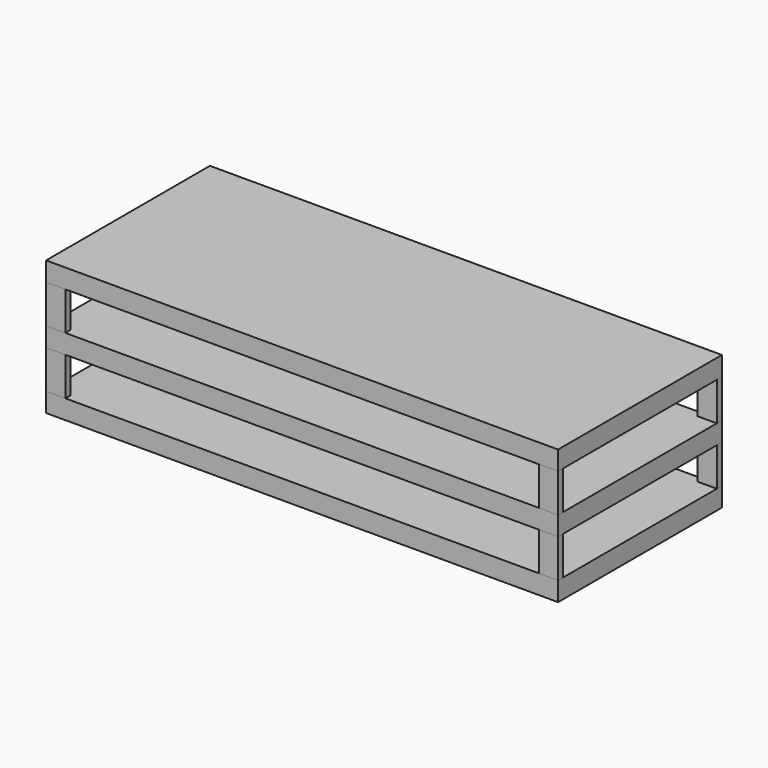
from build123d import *

# Parameters (mm, degrees)
F0_W     = 254
F0_H     = 9.525
F1_DEPTH = 101.6
F2_W     = 9.525
F2_H     = 3.175
F3_DEPTH = 19.05
F4_W     = 254
F4_H     = 101.6
F5_DEPTH = 9.525
F6_W     = 9.525
F6_H     = 3.175
F7_DEPTH = 19.05
F8_W     = 254
F8_H     = 101.6
F9_DEPTH = 9.525


with BuildPart() as f1:
    # F0 (on Front) → F1 (new body)
    with BuildSketch(Plane.XZ):
        with Locations((96.778256, -9.407066)):
            Rectangle(F0_W, F0_H)
    extrude(amount=F1_DEPTH)


with BuildPart() as f3:
    # F2 (on face) → F3 (new body)
    with BuildSketch(Plane.XY.offset(23.930434)):
        with Locations((219.015756, -100.0125)):
            Rectangle(F2_W, F2_H)
        with Locations((219.015756, -1.5875)):
            Rectangle(F2_W, F2_H)
        with Locations((-25.459244, -100.0125)):
            Rectangle(F2_W, F2_H)
        with Locations((-25.459244, -1.5875)):
            Rectangle(F2_W, F2_H)
    extrude(amount=F3_DEPTH)


with BuildPart() as f5:
    # F4 (on face) → F5 (new body)
    with BuildSketch(Plane.XY.offset(14.405434)):
        with Locations((96.778256, -50.8)):
            Rectangle(F4_W, F4_H)
    extrude(amount=F5_DEPTH)


with BuildPart() as f7:
    # F6 (on face) → F7 (new body)
    with BuildSketch(Plane.XY.offset(-4.644566)):
        with Locations((-25.459244, -1.5875)):
            Rectangle(F6_W, F6_H)
        with Locations((219.015756, -1.5875)):
            Rectangle(F6_W, F6_H)
        with Locations((219.015756, -100.0125)):
            Rectangle(F6_W, F6_H)
        with Locations((-25.459244, -100.0125)):
            Rectangle(F6_W, F6_H)
    extrude(amount=F7_DEPTH)


with BuildPart() as f9:
    # F8 (on face) → F9 (new body)
    with BuildSketch(Plane.XY.offset(42.980434)):
        with Locations((96.778256, -50.8)):
            Rectangle(F8_W, F8_H)
    extrude(amount=F9_DEPTH)


solid = Compound([f1.part, f3.part, f5.part, f7.part, f9.part])
